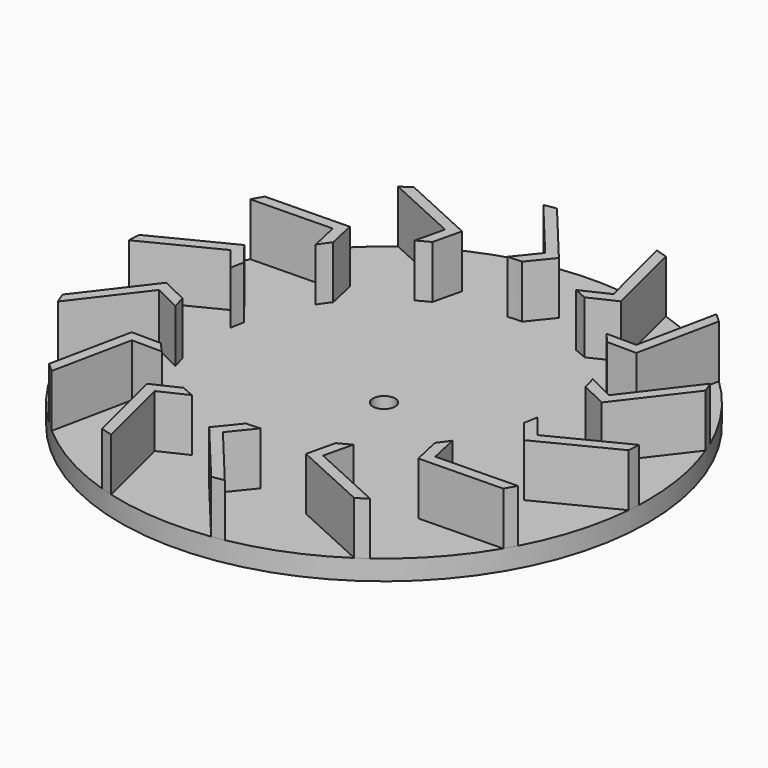
from build123d import *

# Parameters (mm, degrees)
F0_R     = 25
F1_DEPTH = 1.9
F2_R     = 1.05
F3_DEPTH = 25.4
F5_DEPTH = 5


with BuildPart() as f1:
    # F0 (on Top) → F1 (new body)
    with BuildSketch(Plane.XY):
        Circle(F0_R)
    extrude(amount=F1_DEPTH)

    # F2 (on Top) → F3 (cut)
    with BuildSketch(Plane.XY):
        Circle(F2_R)
    extrude(amount=F3_DEPTH, mode=Mode.SUBTRACT)

    # F4 (on face) → F5 (join)
    with BuildSketch(Plane.XY.offset(1.9)):
        with BuildLine():
            ThreePointArc((-8.4449654791, 14.1750681853), (-7.8625386646, 14.5062223114), (-7.267148147, 14.8134586714))
            Line((-7.267148147, 14.8134586714), (-6.6282985683, 17.5245980034))
            Line((-6.6282985683, 17.5245980034), (-13.8357791201, 20.8223729709))
            ThreePointArc((-13.8357791201, 20.8223729709), (-14.3152843529, 20.4956735409), (-14.7870786227, 20.1579340659))
            Line((-14.7870786227, 20.1579340659), (-7.7896110966, 16.9562503322))
            Line((-7.7896110966, 16.9562503322), (-8.4449654791, 14.1750681853))
        make_face()
        with BuildLine():
            ThreePointArc((-1.4583194007, 16.4354283341), (-0.7898885826, 16.4810823682), (-0.1201554013, 16.4995624996))
            Line((-0.1201554013, 16.4995624996), (1.631747451, 18.6650281904))
            Line((1.631747451, 18.6650281904), (-3.4311172084, 24.7634293809))
            ThreePointArc((-3.4311172084, 24.7634293809), (-4.0048860655, 24.6771328886), (-4.5764976809, 24.5775439981))
            Line((-4.5764976809, 24.5775439981), (0.3388442045, 18.6568392545))
            Line((0.3388442045, 18.6568392545), (-1.4583194007, 16.4354283341))
        make_face()
        with BuildLine():
            ThreePointArc((5.8171647201, 15.4405503341), (6.4392086206, 15.1916619348), (7.0506355953, 14.917725621))
            Line((7.0506355953, 14.917725621), (9.5686058756, 16.1086206327))
            Line((9.5686058756, 16.1086206327), (7.6531195462, 23.7997848984))
            ThreePointArc((7.6531195462, 23.7997848984), (7.0987290239, 23.9709834226), (6.5405147537, 24.1292699176))
            Line((6.5405147537, 24.1292699176), (8.4001872552, 16.6622123514))
            Line((8.4001872552, 16.6622123514), (5.8171647201, 15.4405503341))
        make_face()
        with BuildLine():
            ThreePointArc((11.9404880253, 11.3874819745), (12.3929415847, 10.8933465417), (12.8249617418, 10.3812502291))
            Line((12.8249617418, 10.3812502291), (15.6102845553, 10.3617031995))
            Line((15.6102845553, 10.3617031995), (17.2215621154, 18.1223011316))
            ThreePointArc((17.2215621154, 18.1223011316), (16.7963537699, 18.5170867049), (16.3620980272, 18.9018980039))
            Line((16.3620980272, 18.9018980039), (14.7977701984, 11.3674299434))
            Line((14.7977701984, 11.3674299434), (11.9404880253, 11.3874819745))
        make_face()
        with BuildLine():
            ThreePointArc((15.6988512365, 5.0789831515), (15.8921004786, 4.4374702679), (16.0591469276, 3.7886409118))
            Line((16.0591469276, 3.7886409118), (18.5601549312, 2.5625233696))
            Line((18.5601549312, 2.5625233696), (23.379063099, 8.8554733703))
            ThreePointArc((23.379063099, 8.8554733703), (23.167254658, 9.3956538681), (22.9429671184, 9.9307733739))
            Line((22.9429671184, 9.9307733739), (18.2644732712, 3.8211886228))
            Line((18.2644732712, 3.8211886228), (15.6988512365, 5.0789831515))
        make_face()
        with BuildLine():
            Line((18.1136734135, -4.4818859684), (16.3478644266, -2.2354705742))
            ThreePointArc((16.3478644266, -2.2354705742), (16.2436339688, -2.8973014145), (16.1126211118, -3.5543552028))
            Line((16.1126211118, -3.5543552028), (17.8339589977, -5.7441956409))
            Line((17.8339589977, -5.7441956409), (24.9060539105, -2.1652894973))
            ThreePointArc((24.9060539105, -2.1652894973), (24.9495966334, -1.5867034474), (24.9797001948, -1.0072627157))
            Line((24.9797001948, -1.0072627157), (18.1136734135, -4.4818859684))
        make_face()
        with BuildLine():
            Line((14.3752383867, -11.8972680768), (13.7589825736, -9.1071619365))
            ThreePointArc((13.7589825736, -9.1071619365), (13.3779165365, -9.6582270186), (12.9747930765, -10.1933676782))
            Line((12.9747930765, -10.1933676782), (13.5755287655, -12.9132062568))
            Line((13.5755287655, -12.9132062568), (21.5000952923, -12.7571902244))
            ThreePointArc((21.5000952923, -12.7571902244), (21.7903650088, -12.2547946855), (22.0688972917, -11.7457980712))
            Line((22.0688972917, -11.7457980712), (14.3752383867, -11.8972680768))
        make_face()
        with BuildLine():
            Line((7.7896110966, -16.9562503322), (8.4449654791, -14.1750681853))
            ThreePointArc((8.4449654791, -14.1750681853), (7.8625386646, -14.5062223114), (7.267148147, -14.8134586714))
            Line((7.267148147, -14.8134586714), (6.6282985683, -17.5245980034))
            Line((6.6282985683, -17.5245980034), (13.8357791201, -20.8223729709))
            ThreePointArc((13.8357791201, -20.8223729709), (14.3152843529, -20.4956735409), (14.7870786227, -20.1579340659))
            Line((14.7870786227, -20.1579340659), (7.7896110966, -16.9562503322))
        make_face()
        with BuildLine():
            Line((-0.3388442045, -18.6568392545), (1.4583194007, -16.4354283341))
            ThreePointArc((1.4583194007, -16.4354283341), (0.7898885826, -16.4810823682), (0.1201554013, -16.4995624996))
            Line((0.1201554013, -16.4995624996), (-1.631747451, -18.6650281904))
            Line((-1.631747451, -18.6650281904), (3.4311172084, -24.7634293809))
            ThreePointArc((3.4311172084, -24.7634293809), (4.0048860655, -24.6771328886), (4.5764976809, -24.5775439981))
            Line((4.5764976809, -24.5775439981), (-0.3388442045, -18.6568392545))
        make_face()
        with BuildLine():
            Line((-8.4001872552, -16.6622123514), (-5.8171647201, -15.4405503341))
            ThreePointArc((-5.8171647201, -15.4405503341), (-6.4392086206, -15.1916619348), (-7.0506355953, -14.917725621))
            Line((-7.0506355953, -14.917725621), (-9.5686058756, -16.1086206327))
            Line((-9.5686058756, -16.1086206327), (-7.6531195462, -23.7997848984))
            ThreePointArc((-7.6531195462, -23.7997848984), (-7.0987290239, -23.9709834226), (-6.5405147537, -24.1292699176))
            Line((-6.5405147537, -24.1292699176), (-8.4001872552, -16.6622123514))
        make_face()
        with BuildLine():
            Line((-14.7977701984, -11.3674299434), (-11.9404880253, -11.3874819745))
            ThreePointArc((-11.9404880253, -11.3874819745), (-12.3929415847, -10.8933465417), (-12.8249617418, -10.3812502291))
            Line((-12.8249617418, -10.3812502291), (-15.6102845553, -10.3617031995))
            Line((-15.6102845553, -10.3617031995), (-17.2215621154, -18.1223011316))
            ThreePointArc((-17.2215621154, -18.1223011316), (-16.7963537699, -18.5170867049), (-16.3620980272, -18.9018980039))
            Line((-16.3620980272, -18.9018980039), (-14.7977701984, -11.3674299434))
        make_face()
        with BuildLine():
            Line((-18.2644732712, -3.8211886228), (-15.6988512365, -5.0789831515))
            ThreePointArc((-15.6988512365, -5.0789831515), (-15.8921004786, -4.4374702679), (-16.0591469276, -3.7886409118))
            Line((-16.0591469276, -3.7886409118), (-18.5601549312, -2.5625233696))
            Line((-18.5601549312, -2.5625233696), (-23.379063099, -8.8554733703))
            ThreePointArc((-23.379063099, -8.8554733703), (-23.167254658, -9.3956538681), (-22.9429671184, -9.9307733739))
            Line((-22.9429671184, -9.9307733739), (-18.2644732712, -3.8211886228))
        make_face()
        with BuildLine():
            ThreePointArc((-16.3478644266, 2.2354705742), (-16.2436339688, 2.8973014145), (-16.1126211118, 3.5543552028))
            Line((-16.1126211118, 3.5543552028), (-17.8339589977, 5.7441956409))
            Line((-17.8339589977, 5.7441956409), (-24.9060539105, 2.1652894973))
            ThreePointArc((-24.9060539105, 2.1652894973), (-24.9495966334, 1.5867034474), (-24.9797001948, 1.0072627157))
            Line((-24.9797001948, 1.0072627157), (-18.1136734135, 4.4818859684))
            Line((-18.1136734135, 4.4818859684), (-16.3478644266, 2.2354705742))
        make_face()
        with BuildLine():
            ThreePointArc((-13.7589825736, 9.1071619365), (-13.3779165365, 9.6582270186), (-12.9747930765, 10.1933676782))
            Line((-12.9747930765, 10.1933676782), (-13.5755287655, 12.9132062568))
            Line((-13.5755287655, 12.9132062568), (-21.5000952923, 12.7571902244))
            ThreePointArc((-21.5000952923, 12.7571902244), (-21.7903650088, 12.2547946855), (-22.0688972917, 11.7457980712))
            Line((-22.0688972917, 11.7457980712), (-14.3752383867, 11.8972680768))
            Line((-14.3752383867, 11.8972680768), (-13.7589825736, 9.1071619365))
        make_face()
    extrude(amount=F5_DEPTH)


solid = f1.part
